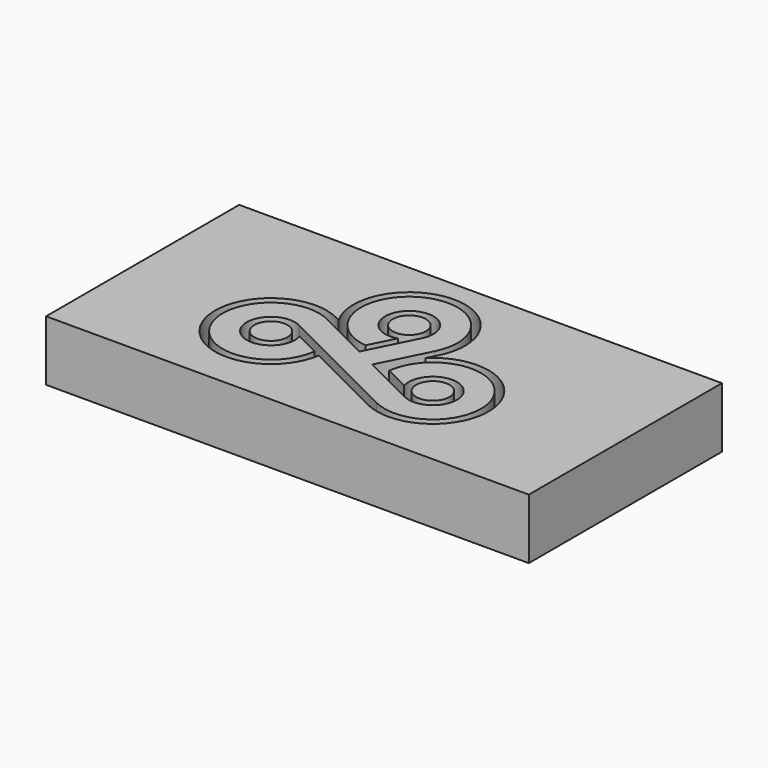
from build123d import *

# Parameters (mm, degrees)
F0_W     = 101.6
F0_H     = 50.8
F1_DEPTH = 12.7
F2_R     = 3.4925
F3_DEPTH = 6.35


with BuildPart() as f1:
    # F0 (on Top) → F1 (new body)
    with BuildSketch(Plane.XY):
        with Locations((1.517599, 0.191483)):
            Rectangle(F0_W, F0_H)
    extrude(amount=-F1_DEPTH)

    # F2 (on Top) → F3 (cut)
    with BuildSketch(Plane.XY):
        with BuildLine():
            Line((8.705417, 2.137989), (9.813658, 4.354471))
            ThreePointArc((9.813658, 4.354471), (-1.02506, 21.350936), (-10.887856, 3.770183))
            Line((-10.887856, 3.770183), (-11.883179, 4.267844))
            ThreePointArc((-11.883179, 4.267844), (-27.596218, -11.587781), (-5.542731, -8.13175))
            Line((-5.542731, -8.13175), (11.687214, -16.746723))
            ThreePointArc((11.687214, -16.746723), (28.544601, -4.407269), (8.705417, 2.137989))
        make_face()
        with Locations((-17.136821, -6.239439)):
            Circle(F2_R, mode=Mode.SUBTRACT)
        with BuildLine():
            Line((12.397165, -15.326819), (-14.864975, -1.695749))
            ThreePointArc((-14.864975, -1.695749), (-21.019695, -9.515059), (-12.27537, -4.765431))
            Line((-12.27537, -4.765431), (-7.041321, -7.382455))
            ThreePointArc((-7.041321, -7.382455), (-26.066643, -11.085456), (-12.59313, 2.847941))
            Line((-12.59313, 2.847941), (-1.233905, -2.831672))
            Line((-1.233905, -2.831672), (3.850064, 7.336267))
            ThreePointArc((3.850064, 7.336267), (-3.969246, 13.490986), (0.780383, 4.746662))
            Line((0.780383, 4.746662), (-1.836642, -0.487387))
            ThreePointArc((-1.836642, -0.487387), (-5.539642, 18.537934), (8.393754, 5.064422))
            Line((8.393754, 5.064422), (3.309785, -5.103517))
            Line((3.309785, -5.103517), (14.66901, -10.783129))
            ThreePointArc((14.66901, -10.783129), (20.82373, -2.963819), (12.079405, -7.713448))
            Line((12.079405, -7.713448), (6.845356, -5.096423))
            ThreePointArc((6.845356, -5.096423), (25.870677, -1.393423), (12.397165, -15.326819))
        make_face(mode=Mode.SUBTRACT)
        with Locations((16.940855, -6.239439)):
            Circle(F2_R, mode=Mode.SUBTRACT)
        with Locations((-0.693626, 9.608112)):
            Circle(F2_R, mode=Mode.SUBTRACT)
    extrude(amount=-F3_DEPTH, mode=Mode.SUBTRACT)


solid = f1.part
